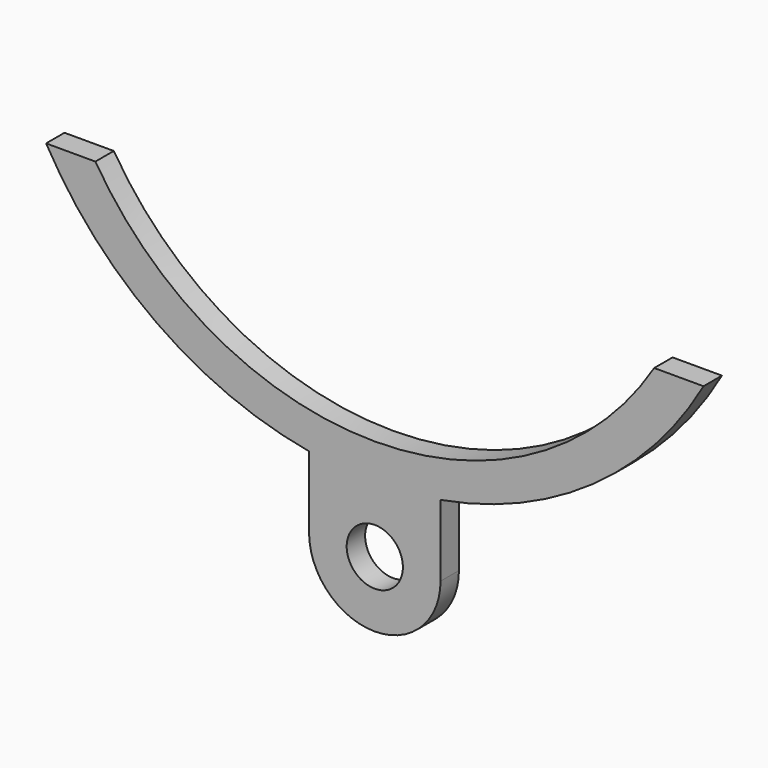
from build123d import *

# Parameters (mm, degrees)
F0_R     = 42.74821
F1_DEPTH = 35


with BuildPart() as f1:
    # F0 (on Front) → F1 (new body)
    with BuildSketch(Plane.XZ):
        with BuildLine():
            Line((75, 0), (0, 0))
            ThreePointArc((0, 0), (168.454805, -185.844731), (400, -282.292165))
            Line((400, -282.292165), (400, -391.054583))
            ThreePointArc((400, -391.054583), (500, -491.054583), (600, -391.054583))
            Line((600, -391.054583), (600, -282.292165))
            ThreePointArc((600, -282.292165), (831.545195, -185.844731), (1000, 0))
            Line((1000, 0), (925, 0))
            ThreePointArc((925, 0), (500, -236.608656), (75, 0))
        make_face()
        with Locations((500, -391.054583)):
            Circle(F0_R, mode=Mode.SUBTRACT)
    extrude(amount=F1_DEPTH)


solid = f1.part
